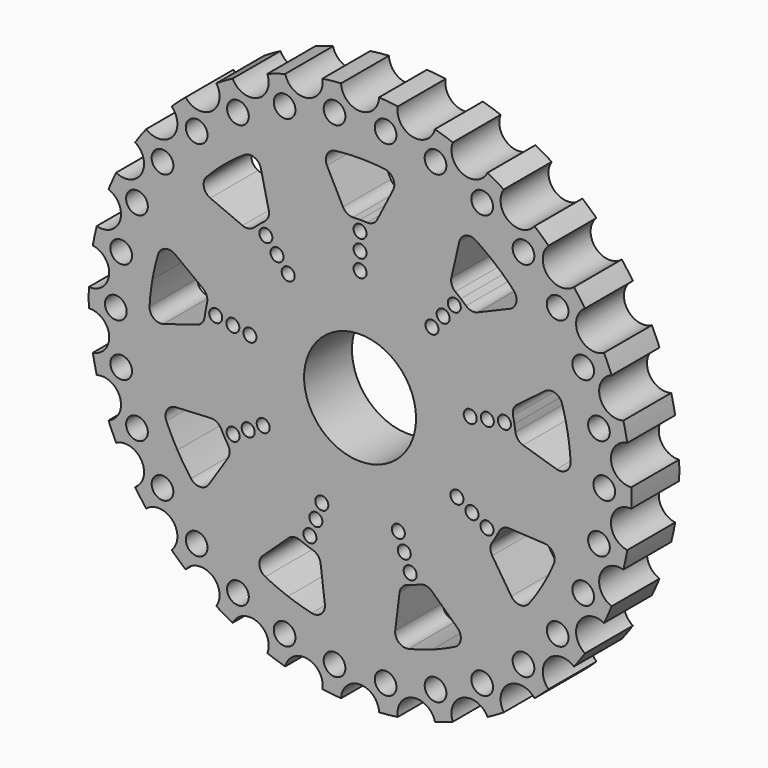
from build123d import *

# Parameters (mm, degrees)
F1_DEPTH = 7.0000114
F2_R     = 6.55
F3_DEPTH = 7.0010114
F4_R     = 6.55
F5_DEPTH = 0.635
F6_R     = 0.762
F6_R_2   = 2.2225
F7_DEPTH = 7.0010114
F8_R     = 1.27
F9_DEPTH = 7.0010114


with BuildPart() as f1:
    # F0 (on Front) → F1 (new body)
    with BuildSketch(Plane.XZ):
        with BuildLine():
            ThreePointArc((-31.2665366326, 5.5196183745), (-29.3657452655, 3.0864641991), (-31.7308809794, 1.1016770273))
            ThreePointArc((-31.7308809794, 1.1016770273), (-31.75, 0), (-31.7308809794, -1.1016770273))
            ThreePointArc((-31.7308809794, -1.1016770273), (-29.3657452655, -3.0864641991), (-31.2665366326, -5.5196183745))
            ThreePointArc((-31.2665366326, -5.5196183745), (-31.0561863233, -6.6011961835), (-30.8084335657, -7.6748238566))
            ThreePointArc((-30.8084335657, -7.6748238566), (-28.0823212849, -9.1244993014), (-29.4356946016, -11.8996799673))
            ThreePointArc((-29.4356946016, -11.8996799673), (-29.0050682802, -12.9138884177), (-28.5395097699, -13.9125440555))
            ThreePointArc((-28.5395097699, -13.9125440555), (-25.5715651102, -14.76375), (-26.3183714683, -17.7596684445))
            ThreePointArc((-26.3183714683, -17.7596684445), (-25.6862895714, -18.6621817603), (-25.0232724494, -19.5422193193))
            ThreePointArc((-25.0232724494, -19.5422193193), (-21.9432088343, -19.7577539793), (-22.0508092122, -22.8434741904))
            ThreePointArc((-22.0508092122, -22.8434741904), (-21.2448967519, -23.5948482089), (-20.4133980478, -24.317805825))
            ThreePointArc((-20.4133980478, -24.317805825), (-17.3558290371, -23.8882493014), (-16.8195207821, -26.9289104989))
            ThreePointArc((-16.8195207821, -26.9289104989), (-15.875, -27.4963065702), (-14.9113601973, -28.0305875263))
            ThreePointArc((-14.9113601973, -28.0305875263), (-12.0099162284, -26.9747135005), (-10.8531385848, -29.8374241995))
            ThreePointArc((-10.8531385848, -29.8374241995), (-9.8112895714, -30.1960443924), (-8.7576243534, -30.518298047))
            ThreePointArc((-8.7576243534, -30.518298047), (-6.1391124506, -28.8822532807), (-4.4124221522, -31.4418992866))
            ThreePointArc((-4.4124221522, -31.4418992866), (-3.3187787087, -31.5760701779), (-2.2211383016, -31.6722125))
            ThreePointArc((-2.2211383016, -31.6722125), (0, -29.5275), (2.2211383016, -31.6722125))
            ThreePointArc((2.2211383016, -31.6722125), (3.3187787087, -31.5760701779), (4.4124221522, -31.4418992866))
            ThreePointArc((4.4124221522, -31.4418992866), (6.1391124506, -28.8822532807), (8.7576243534, -30.518298047))
            ThreePointArc((8.7576243534, -30.518298047), (9.8112895714, -30.1960443924), (10.8531385848, -29.8374241995))
            ThreePointArc((10.8531385848, -29.8374241995), (12.0099162284, -26.9747135005), (14.9113601973, -28.0305875263))
            ThreePointArc((14.9113601973, -28.0305875263), (15.875, -27.4963065702), (16.8195207821, -26.9289104989))
            ThreePointArc((16.8195207821, -26.9289104989), (17.3558290371, -23.8882493014), (20.4133980478, -24.317805825))
            ThreePointArc((20.4133980478, -24.317805825), (21.2448967519, -23.5948482089), (22.0508092122, -22.8434741904))
            ThreePointArc((22.0508092122, -22.8434741904), (21.9432088343, -19.7577539793), (25.0232724494, -19.5422193193))
            ThreePointArc((25.0232724494, -19.5422193193), (25.6862895714, -18.6621817603), (26.3183714683, -17.7596684445))
            ThreePointArc((26.3183714683, -17.7596684445), (25.5715651102, -14.76375), (28.5395097699, -13.9125440555))
            ThreePointArc((28.5395097699, -13.9125440555), (29.0050682802, -12.9138884177), (29.4356946016, -11.8996799673))
            ThreePointArc((29.4356946016, -11.8996799673), (28.0823212849, -9.1244993014), (30.8084335657, -7.6748238566))
            ThreePointArc((30.8084335657, -7.6748238566), (31.0561863233, -6.6011961835), (31.2665366326, -5.5196183745))
            ThreePointArc((31.2665366326, -5.5196183745), (29.3657452655, -3.0864641991), (31.7308809794, -1.1016770273))
            ThreePointArc((31.7308809794, -1.1016770273), (31.75, 0), (31.7308809794, 1.1016770273))
            ThreePointArc((31.7308809794, 1.1016770273), (29.3657452655, 3.0864641991), (31.2665366326, 5.5196183745))
            ThreePointArc((31.2665366326, 5.5196183745), (31.0561863233, 6.6011961835), (30.8084335657, 7.6748238566))
            ThreePointArc((30.8084335657, 7.6748238566), (28.0823212849, 9.1244993014), (29.4356946016, 11.8996799673))
            ThreePointArc((29.4356946016, 11.8996799673), (29.0050682802, 12.9138884177), (28.5395097699, 13.9125440555))
            ThreePointArc((28.5395097699, 13.9125440555), (25.5715651102, 14.76375), (26.3183714683, 17.7596684445))
            ThreePointArc((26.3183714683, 17.7596684445), (25.6862895714, 18.6621817603), (25.0232724494, 19.5422193193))
            ThreePointArc((25.0232724494, 19.5422193193), (21.9432088343, 19.7577539793), (22.0508092122, 22.8434741904))
            ThreePointArc((22.0508092122, 22.8434741904), (21.2448967519, 23.5948482089), (20.4133980478, 24.317805825))
            ThreePointArc((20.4133980478, 24.317805825), (17.3558290371, 23.8882493014), (16.8195207821, 26.9289104989))
            ThreePointArc((16.8195207821, 26.9289104989), (15.875, 27.4963065702), (14.9113601973, 28.0305875263))
            ThreePointArc((14.9113601973, 28.0305875263), (12.0099162284, 26.9747135005), (10.8531385848, 29.8374241995))
            ThreePointArc((10.8531385848, 29.8374241995), (9.8112895714, 30.1960443924), (8.7576243534, 30.518298047))
            ThreePointArc((8.7576243534, 30.518298047), (6.1391124506, 28.8822532807), (4.4124221522, 31.4418992866))
            ThreePointArc((4.4124221522, 31.4418992866), (3.3187787087, 31.5760701779), (2.2211383016, 31.6722125))
            ThreePointArc((2.2211383016, 31.6722125), (0, 29.5275), (-2.2211383016, 31.6722125))
            ThreePointArc((-2.2211383016, 31.6722125), (-3.3187787087, 31.5760701779), (-4.4124221522, 31.4418992866))
            ThreePointArc((-4.4124221522, 31.4418992866), (-6.1391124506, 28.8822532807), (-8.7576243534, 30.518298047))
            ThreePointArc((-8.7576243534, 30.518298047), (-9.8112895714, 30.1960443924), (-10.8531385848, 29.8374241995))
            ThreePointArc((-10.8531385848, 29.8374241995), (-12.0099162284, 26.9747135005), (-14.9113601973, 28.0305875263))
            ThreePointArc((-14.9113601973, 28.0305875263), (-15.875, 27.4963065702), (-16.8195207821, 26.9289104989))
            ThreePointArc((-16.8195207821, 26.9289104989), (-17.3558290371, 23.8882493014), (-20.4133980478, 24.317805825))
            ThreePointArc((-20.4133980478, 24.317805825), (-21.2448967519, 23.5948482089), (-22.0508092122, 22.8434741904))
            ThreePointArc((-22.0508092122, 22.8434741904), (-21.9432088343, 19.7577539793), (-25.0232724494, 19.5422193193))
            ThreePointArc((-25.0232724494, 19.5422193193), (-25.6862895714, 18.6621817603), (-26.3183714683, 17.7596684445))
            ThreePointArc((-26.3183714683, 17.7596684445), (-25.5715651102, 14.76375), (-28.5395097699, 13.9125440555))
            ThreePointArc((-28.5395097699, 13.9125440555), (-29.0050682802, 12.9138884177), (-29.4356946016, 11.8996799673))
            ThreePointArc((-29.4356946016, 11.8996799673), (-28.0823212849, 9.1244993014), (-30.8084335657, 7.6748238566))
            ThreePointArc((-30.8084335657, 7.6748238566), (-31.0561863233, 6.6011961835), (-31.2665366326, 5.5196183745))
        make_face()
        with BuildLine():
            Line((-4.6194413356, -18.5493539362), (-4.1173055848, -22.6209685957))
            ThreePointArc((-4.1173055848, -22.6209685957), (-4.5300570706, -23.7220922875), (-5.669592764, -24.0124292939))
            ThreePointArc((-5.669592764, -24.0124292939), (-7.066202198, -23.6391588091), (-8.4385528867, -23.184733509))
            ThreePointArc((-8.4385528867, -23.184733509), (-9.7819334581, -22.6507134661), (-11.0917319969, -22.0389320071))
            ThreePointArc((-11.0917319969, -22.0389320071), (-11.7780419523, -21.0840415322), (-11.3864392686, -19.9752203059))
            Line((-11.3864392686, -19.9752203059), (-8.3845975125, -17.1789491605))
            ThreePointArc((-8.3845975125, -17.1789491605), (-7.7440718293, -16.8583411802), (-7.0319366258, -16.9353222141))
            ThreePointArc((-7.0319366258, -16.9353222141), (-6.6534623842, -17.0875600806), (-6.2716951982, -17.2313409387))
            ThreePointArc((-6.2716951982, -17.2313409387), (-5.8868240126, -17.3665936283), (-5.4990393088, -17.4932512097))
            ThreePointArc((-5.4990393088, -17.4932512097), (-4.9040296385, -17.8920320017), (-4.6194413356, -18.5493539362))
        make_face(mode=Mode.SUBTRACT)
        with BuildLine():
            Line((-15.4619922433, -11.2403098521), (-17.6945173962, -14.6821142755))
            ThreePointArc((-17.6945173962, -14.6821142755), (-18.7184920442, -15.2603124199), (-19.7780520602, -14.7502440457))
            ThreePointArc((-19.7780520602, -14.7502440457), (-20.6079833136, -13.5665790253), (-21.3671659803, -12.3363390305))
            ThreePointArc((-21.3671659803, -12.3363390305), (-22.0529937351, -11.0637475577), (-22.6631120857, -9.7531734987))
            ThreePointArc((-22.6631120857, -9.7531734987), (-22.5750642474, -8.5805334209), (-21.562342642, -7.9828444351))
            Line((-21.562342642, -7.9828444351), (-17.46539, -7.7703231498))
            ThreePointArc((-17.46539, -7.7703231498), (-16.7686360225, -7.9364451609), (-16.2725912618, -8.4531677394))
            ThreePointArc((-16.2725912618, -8.4531677394), (-16.0805197865, -8.8130672641), (-15.8804897092, -9.1686050085))
            ThreePointArc((-15.8804897092, -9.1686050085), (-15.6726000292, -9.5196050091), (-15.4569536357, -9.8658935484))
            ThreePointArc((-15.4569536357, -9.8658935484), (-15.2574811363, -10.5538422018), (-15.4619922433, -11.2403098521))
        make_face(mode=Mode.SUBTRACT)
        with BuildLine():
            Line((8.3845975125, -17.1789491605), (11.3864392686, -19.9752203059))
            ThreePointArc((11.3864392686, -19.9752203059), (11.7780419523, -21.0840415322), (11.0917319969, -22.0389320071))
            ThreePointArc((11.0917319969, -22.0389320071), (9.7819334581, -22.6507134661), (8.4385528867, -23.184733509))
            ThreePointArc((8.4385528867, -23.184733509), (7.066202198, -23.6391588091), (5.669592764, -24.0124292939))
            ThreePointArc((5.669592764, -24.0124292939), (4.5300570706, -23.7220922875), (4.1173055848, -22.6209685957))
            Line((4.1173055848, -22.6209685957), (4.6194413356, -18.5493539362))
            ThreePointArc((4.6194413356, -18.5493539362), (4.9040296385, -17.8920320017), (5.4990393088, -17.4932512097))
            ThreePointArc((5.4990393088, -17.4932512097), (5.8868240126, -17.3665936283), (6.2716951982, -17.2313409387))
            ThreePointArc((6.2716951982, -17.2313409387), (6.6534623842, -17.0875600806), (7.0319366258, -16.9353222141))
            ThreePointArc((7.0319366258, -16.9353222141), (7.7440718293, -16.8583411802), (8.3845975125, -17.1789491605))
        make_face(mode=Mode.SUBTRACT)
        with BuildLine():
            Line((17.46539, -7.7703231498), (21.562342642, -7.9828444351))
            ThreePointArc((21.562342642, -7.9828444351), (22.5750642474, -8.5805334209), (22.6631120857, -9.7531734987))
            ThreePointArc((22.6631120857, -9.7531734987), (22.0529937351, -11.0637475577), (21.3671659803, -12.3363390305))
            ThreePointArc((21.3671659803, -12.3363390305), (20.6079833136, -13.5665790253), (19.7780520602, -14.7502440457))
            ThreePointArc((19.7780520602, -14.7502440457), (18.7184920442, -15.2603124199), (17.6945173962, -14.6821142755))
            Line((17.6945173962, -14.6821142755), (15.4619922433, -11.2403098521))
            ThreePointArc((15.4619922433, -11.2403098521), (15.2574811363, -10.5538422018), (15.4569536357, -9.8658935484))
            ThreePointArc((15.4569536357, -9.8658935484), (15.6726000292, -9.5196050091), (15.8804897092, -9.1686050085))
            ThreePointArc((15.8804897092, -9.1686050085), (16.0805197865, -8.8130672641), (16.2725912618, -8.4531677394))
            ThreePointArc((16.2725912618, -8.4531677394), (16.7686360225, -7.9364451609), (17.46539, -7.7703231498))
        make_face(mode=Mode.SUBTRACT)
        with BuildLine():
            Line((-19.0697051395, 1.3282001339), (-22.9922678654, 0.1266644877))
            ThreePointArc((-22.9922678654, 0.1266644877), (-24.1483365575, 0.3419372285), (-24.6321409889, 1.4137443222))
            ThreePointArc((-24.6321409889, 1.4137443222), (-24.5070600046, 2.8539538602), (-24.2978446421, 4.2843655835))
            ThreePointArc((-24.2978446421, 4.2843655835), (-24.0052131518, 5.7000687928), (-23.6301701571, 7.0962032842))
            ThreePointArc((-23.6301701571, 7.0962032842), (-22.8089630872, 7.93790164), (-21.6489862545, 7.7447930663))
            Line((-21.6489862545, 7.7447930663), (-18.3739324003, 5.2741234202))
            ThreePointArc((-18.3739324003, 5.2741234202), (-17.9469690581, 4.699001753), (-17.8991195968, 3.984317867))
            ThreePointArc((-17.8991195968, 3.984317867), (-17.9833232656, 3.5851576716), (-18.0586265933, 3.1842231029))
            ThreePointArc((-18.0586265933, 3.1842231029), (-18.1249923106, 2.7817125924), (-18.1823875716, 2.3778253514))
            ThreePointArc((-18.1823875716, 2.3778253514), (-18.4717876424, 1.7226076572), (-19.0697051395, 1.3282001339))
        make_face(mode=Mode.SUBTRACT)
        with BuildLine():
            Line((-13.7544910648, 13.275230516), (-17.5316806697, 14.8761755294))
            ThreePointArc((-17.5316806697, 14.8761755294), (-18.2789060166, 15.7841906475), (-17.9605773931, 16.9162260097))
            ThreePointArc((-17.9605773931, 16.9162260097), (-16.9390109537, 17.9390900163), (-15.8592917554, 18.9003679255))
            ThreePointArc((-15.8592917554, 18.9003679255), (-14.7251265464, 19.7967596059), (-13.5404089919, 20.6251876849))
            ThreePointArc((-13.5404089919, 20.6251876849), (-12.3702946052, 20.7421043036), (-11.6058285968, 19.8485558182))
            Line((-11.6058285968, 19.8485558182), (-10.685107627, 15.8507490265))
            ThreePointArc((-10.685107627, 15.8507490265), (-10.727715813, 15.135733523), (-11.1504509458, 14.5574968628))
            ThreePointArc((-11.1504509458, 14.5574968628), (-11.4715299264, 14.3058474881), (-11.7869313951, 14.0471178358))
            ThreePointArc((-11.7869313951, 14.0471178358), (-12.096499253, 13.7814359567), (-12.400080288, 13.5089333426))
            ThreePointArc((-12.400080288, 13.5089333426), (-13.0429394196, 13.1930302487), (-13.7544910648, 13.275230516))
        make_face(mode=Mode.SUBTRACT)
        with BuildLine():
            Line((10.685107627, 15.8507490265), (11.6058285968, 19.8485558182))
            ThreePointArc((11.6058285968, 19.8485558182), (12.3702946052, 20.7421043036), (13.5404089919, 20.6251876849))
            ThreePointArc((13.5404089919, 20.6251876849), (14.7251265464, 19.7967596059), (15.8592917554, 18.9003679255))
            ThreePointArc((15.8592917554, 18.9003679255), (16.9390109537, 17.9390900163), (17.9605773931, 16.9162260097))
            ThreePointArc((17.9605773931, 16.9162260097), (18.2789060166, 15.7841906475), (17.5316806697, 14.8761755294))
            Line((17.5316806697, 14.8761755294), (13.7544910648, 13.275230516))
            ThreePointArc((13.7544910648, 13.275230516), (13.0429394196, 13.1930302487), (12.400080288, 13.5089333426))
            ThreePointArc((12.400080288, 13.5089333426), (12.096499253, 13.7814359567), (11.7869313951, 14.0471178358))
            ThreePointArc((11.7869313951, 14.0471178358), (11.4715299264, 14.3058474881), (11.1504509458, 14.5574968628))
            ThreePointArc((11.1504509458, 14.5574968628), (10.727715813, 15.135733523), (10.685107627, 15.8507490265))
        make_face(mode=Mode.SUBTRACT)
        with BuildLine():
            Line((18.3739324003, 5.2741234202), (21.6489862545, 7.7447930663))
            ThreePointArc((21.6489862545, 7.7447930663), (22.8089630872, 7.93790164), (23.6301701571, 7.0962032842))
            ThreePointArc((23.6301701571, 7.0962032842), (24.0052131518, 5.7000687928), (24.2978446421, 4.2843655835))
            ThreePointArc((24.2978446421, 4.2843655835), (24.5070600046, 2.8539538602), (24.6321409889, 1.4137443222))
            ThreePointArc((24.6321409889, 1.4137443222), (24.1483365575, 0.3419372285), (22.9922678654, 0.1266644877))
            Line((22.9922678654, 0.1266644877), (19.0697051395, 1.3282001339))
            ThreePointArc((19.0697051395, 1.3282001339), (18.4717876424, 1.7226076572), (18.1823875716, 2.3778253514))
            ThreePointArc((18.1823875716, 2.3778253514), (18.1249923106, 2.7817125924), (18.0586265933, 3.1842231029))
            ThreePointArc((18.0586265933, 3.1842231029), (17.9833232656, 3.5851576716), (17.8991195968, 3.984317867))
            ThreePointArc((17.8991195968, 3.984317867), (17.9469690581, 4.699001753), (18.3739324003, 5.2741234202))
        make_face(mode=Mode.SUBTRACT)
        with BuildLine():
            Line((-2.0033977567, 19.0106330019), (-3.8678252457, 22.6649587106))
            ThreePointArc((-3.8678252457, 22.6649587106), (-3.8565722032, 23.8408458408), (-2.8850600255, 24.5034175444))
            ThreePointArc((-2.8850600255, 24.5034175444), (-1.4450104215, 24.630326583), (0, 24.672678061))
            ThreePointArc((0, 24.672678061), (1.4450104215, 24.630326583), (2.8850600255, 24.5034175444))
            ThreePointArc((2.8850600255, 24.5034175444), (3.8565722032, 23.8408458408), (3.8678252457, 22.6649587106))
            Line((3.8678252457, 22.6649587106), (2.0033977567, 19.0106330019))
            ThreePointArc((2.0033977567, 19.0106330019), (1.5111548862, 18.4902873627), (0.8156376261, 18.3190612878))
            ThreePointArc((0.8156376261, 18.3190612878), (0.4079197573, 18.3326722732), (0, 18.3372100169))
            ThreePointArc((0, 18.3372100169), (-0.4079197573, 18.3326722732), (-0.8156376261, 18.3190612878))
            ThreePointArc((-0.8156376261, 18.3190612878), (-1.5111548862, 18.4902873627), (-2.0033977567, 19.0106330019))
        make_face(mode=Mode.SUBTRACT)
        with BuildLine():
            ThreePointArc((-2.106159173, 32.4596476507), (-2.1991792531, 32.0711181442), (-2.2211383016, 31.6722125))
            ThreePointArc((-2.2211383016, 31.6722125), (0, 29.5275), (2.2211383016, 31.6722125))
            ThreePointArc((2.2211383016, 31.6722125), (2.2221595493, 31.7111002912), (2.2225, 31.75))
            ThreePointArc((2.2225, 31.75), (1.2472382528, 33.5895387984), (-0.8226320502, 33.8146507598))
            ThreePointArc((-0.8226320502, 33.8146507598), (-1.0410377595, 33.7136055188), (-1.2472382528, 33.5895387984))
            ThreePointArc((-1.2472382528, 33.5895387984), (-1.7693168385, 33.0949996933), (-2.106159173, 32.4596476507))
        make_face()
    extrude(amount=F1_DEPTH)

    # F2 (on face) → F3 (cut, through all)
    with BuildSketch(Plane.XZ.offset(7.0000114)):
        Circle(F2_R)
    extrude(amount=-F3_DEPTH, mode=Mode.SUBTRACT)

    # F4 (on face) → F5 (cut)
    with BuildSketch(Plane.XZ.offset(7.0000114)):
        Circle(F4_R)
    extrude(amount=-F5_DEPTH, mode=Mode.SUBTRACT)

    # F6 (on face) → F7 (cut, through all)
    with BuildSketch(Plane.XZ.offset(7.0000114)):
        with Locations((0, 17.1502226837)):
            Circle(F6_R)
        with Locations((0, 15.1182226837)):
            Circle(F6_R)
        with Locations((0, 13.0862226837)):
            Circle(F6_R)
        with Locations((-9.7178062215, 11.5812304767)):
            Circle(F6_R)
        with Locations((-11.0239506444, 13.1378327851)):
            Circle(F6_R)
        with Locations((-8.4116617987, 10.0246281682)):
            Circle(F6_R)
        with Locations((-14.8885429106, 2.6252518186)):
            Circle(F6_R)
        with Locations((-16.8896722648, 2.9781049156)):
            Circle(F6_R)
        with Locations((-12.8874135565, 2.2723987216)):
            Circle(F6_R)
        with Locations((-13.0927649041, -7.5591113418)):
            Circle(F6_R)
        with Locations((-14.8525285246, -8.5751113418)):
            Circle(F6_R)
        with Locations((-11.3330012836, -6.5431113418)):
            Circle(F6_R)
        with Locations((-5.1707366891, -14.2064822952)):
            Circle(F6_R)
        with Locations((-5.8657216203, -16.1159377007)):
            Circle(F6_R)
        with Locations((-4.4757517579, -12.2970268898)):
            Circle(F6_R)
        with Locations((5.1707366891, -14.2064822952)):
            Circle(F6_R)
        with Locations((5.8657216203, -16.1159377007)):
            Circle(F6_R)
        with Locations((4.4757517579, -12.2970268898)):
            Circle(F6_R)
        with Locations((13.0927649041, -7.5591113418)):
            Circle(F6_R)
        with Locations((14.8525285246, -8.5751113418)):
            Circle(F6_R)
        with Locations((11.3330012836, -6.5431113418)):
            Circle(F6_R)
        with Locations((14.8885429106, 2.6252518186)):
            Circle(F6_R)
        with Locations((16.8896722648, 2.9781049156)):
            Circle(F6_R)
        with Locations((12.8874135565, 2.2723987216)):
            Circle(F6_R)
        with Locations((9.7178062215, 11.5812304767)):
            Circle(F6_R)
        with Locations((11.0239506444, 13.1378327851)):
            Circle(F6_R)
        with Locations((8.4116617987, 10.0246281682)):
            Circle(F6_R)
        with Locations((0, 31.75)):
            Circle(F6_R_2)
    extrude(amount=-F7_DEPTH, mode=Mode.SUBTRACT)

    # F8 (on face) → F9 (cut, through all)
    with BuildSketch(Plane.XZ.offset(7.0000114)):
        with Locations((2.9869008379, 28.4184631601)):
            Circle(F8_R)
        with Locations((-2.9869008379, 28.4184631601)):
            Circle(F8_R)
        with Locations((-8.8301606143, 27.1764399531)):
            Circle(F8_R)
        with Locations((-14.2875, 24.7466759131)):
            Circle(F8_R)
        with Locations((-19.1204070767, 21.235363388)):
            Circle(F8_R)
        with Locations((-23.1176606143, 16.7959635843)):
            Circle(F8_R)
        with Locations((-26.1045614521, 11.6224995759)):
            Circle(F8_R)
        with Locations((-27.950567691, 5.9410765651)):
            Circle(F8_R)
        with Locations((-28.575, 0)):
            Circle(F8_R)
        with Locations((-27.950567691, -5.9410765651)):
            Circle(F8_R)
        with Locations((-26.1045614521, -11.6224995759)):
            Circle(F8_R)
        with Locations((-23.1176606143, -16.7959635843)):
            Circle(F8_R)
        with Locations((-19.1204070767, -21.235363388)):
            Circle(F8_R)
        with Locations((-14.2875, -24.7466759131)):
            Circle(F8_R)
        with Locations((-8.8301606143, -27.1764399531)):
            Circle(F8_R)
        with Locations((-2.9869008379, -28.4184631601)):
            Circle(F8_R)
        with Locations((2.9869008379, -28.4184631601)):
            Circle(F8_R)
        with Locations((8.8301606143, -27.1764399531)):
            Circle(F8_R)
        with Locations((14.2875, -24.7466759131)):
            Circle(F8_R)
        with Locations((19.1204070767, -21.235363388)):
            Circle(F8_R)
        with Locations((23.1176606143, -16.7959635843)):
            Circle(F8_R)
        with Locations((26.1045614521, -11.6224995759)):
            Circle(F8_R)
        with Locations((27.950567691, -5.9410765651)):
            Circle(F8_R)
        with Locations((28.575, 0)):
            Circle(F8_R)
        with Locations((27.950567691, 5.9410765651)):
            Circle(F8_R)
        with Locations((26.1045614521, 11.6224995759)):
            Circle(F8_R)
        with Locations((23.1176606143, 16.7959635843)):
            Circle(F8_R)
        with Locations((19.1204070767, 21.235363388)):
            Circle(F8_R)
        with Locations((14.2875, 24.7466759131)):
            Circle(F8_R)
        with Locations((8.8301606143, 27.1764399531)):
            Circle(F8_R)
    extrude(amount=-F9_DEPTH, mode=Mode.SUBTRACT)


solid = f1.part
